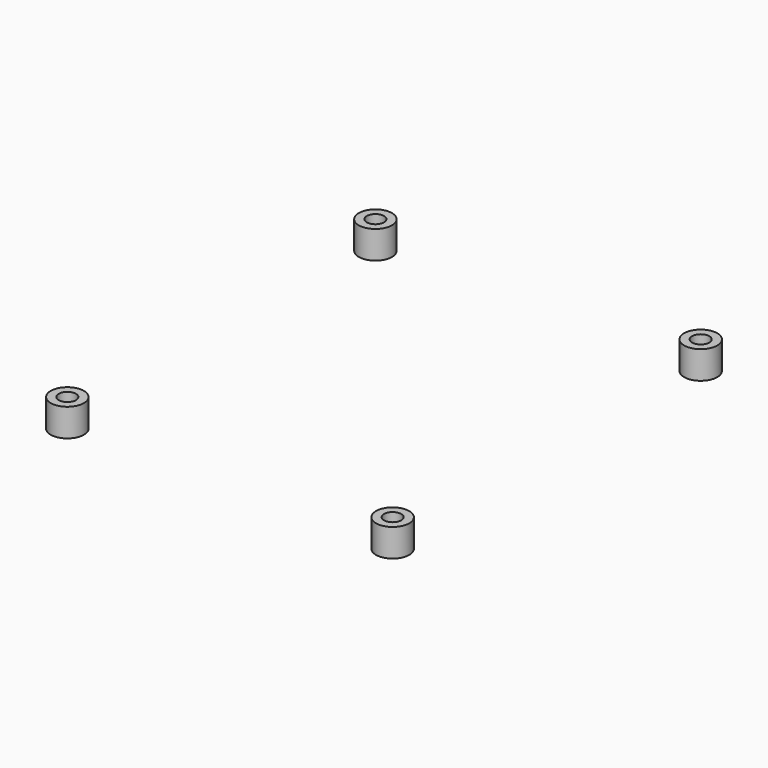
from build123d import *

# Parameters (mm, degrees)
CYLINDER047_R     = 1.3
CYLINDER047_DEPTH = 4.2
CYLINDER046_R     = 2.5
CYLINDER046_DEPTH = 4.2
CYLINDER049_R     = 1.3
CYLINDER049_DEPTH = 4.2
CYLINDER048_R     = 2.5
CYLINDER048_DEPTH = 4.2
CYLINDER051_R     = 1.3
CYLINDER051_DEPTH = 4.2
CYLINDER050_R     = 2.5
CYLINDER050_DEPTH = 4.2
CYLINDER014_R     = 1.3
CYLINDER014_DEPTH = 4.2
CYLINDER015_R     = 2.5
CYLINDER015_DEPTH = 4.2


with BuildPart() as cylinder047:
    # Cylinder047 → Cylinder047 (new body)
    with BuildSketch(Plane.XY):
        Circle(CYLINDER047_R)
    extrude(amount=CYLINDER047_DEPTH)


with BuildPart() as cut001002016023:
    # Cylinder046 → Cylinder046 (new body)
    with BuildSketch(Plane.XY):
        Circle(CYLINDER046_R)
    extrude(amount=CYLINDER046_DEPTH)

    # Cut001002016023: cut Cylinder047
    add(cylinder047.part, mode=Mode.SUBTRACT)


with BuildPart() as cut001002016023_1:
    # Cut001002016023 placement: moved
    add(cut001002016023.part.moved(Location((55, 25.73, 0))))


with BuildPart() as cylinder049:
    # Cylinder049 → Cylinder049 (new body)
    with BuildSketch(Plane.XY):
        Circle(CYLINDER049_R)
    extrude(amount=CYLINDER049_DEPTH)


with BuildPart() as cut001002016024:
    # Cylinder048 → Cylinder048 (new body)
    with BuildSketch(Plane.XY):
        Circle(CYLINDER048_R)
    extrude(amount=CYLINDER048_DEPTH)

    # Cut001002016024: cut Cylinder049
    add(cylinder049.part, mode=Mode.SUBTRACT)


with BuildPart() as cut001002016024_1:
    # Cut001002016024 placement: moved
    add(cut001002016024.part.moved(Location((55, 83.73, 0))))


with BuildPart() as cylinder051:
    # Cylinder051 → Cylinder051 (new body)
    with BuildSketch(Plane.XY):
        Circle(CYLINDER051_R)
    extrude(amount=CYLINDER051_DEPTH)


with BuildPart() as cut001002016025:
    # Cylinder050 → Cylinder050 (new body)
    with BuildSketch(Plane.XY):
        Circle(CYLINDER050_R)
    extrude(amount=CYLINDER050_DEPTH)

    # Cut001002016025: cut Cylinder051
    add(cylinder051.part, mode=Mode.SUBTRACT)


with BuildPart() as cut001002016025_1:
    # Cut001002016025 placement: moved
    add(cut001002016025.part.moved(Location((6, 83.73, 0))))


with BuildPart() as cylinder014:
    # Cylinder014 → Cylinder014 (new body)
    with BuildSketch(Plane.XY):
        Circle(CYLINDER014_R)
    extrude(amount=CYLINDER014_DEPTH)


with BuildPart() as raspberry_pi_3b_screw_holes:
    # Cylinder015 → Cylinder015 (new body)
    with BuildSketch(Plane.XY):
        Circle(CYLINDER015_R)
    extrude(amount=CYLINDER015_DEPTH)

    # Cut001002: cut Cylinder014
    add(cylinder014.part, mode=Mode.SUBTRACT)


with BuildPart() as raspberry_pi_3b_screw_holes_1:
    # Cut001002 placement: moved
    add(raspberry_pi_3b_screw_holes.part.moved(Location((6, 25.73, 0))))

    # Fusion003: union Cut001002016023, Cut001002016024, Cut001002016025
    add(cut001002016023_1.part)
    add(cut001002016024_1.part)
    add(cut001002016025_1.part)


with BuildPart() as raspberry_pi_3b_screw_holes_2:
    # Fusion003 placement: moved
    add(raspberry_pi_3b_screw_holes_1.part.moved(Location((0, 0, 1))))


solid = raspberry_pi_3b_screw_holes_2.part
